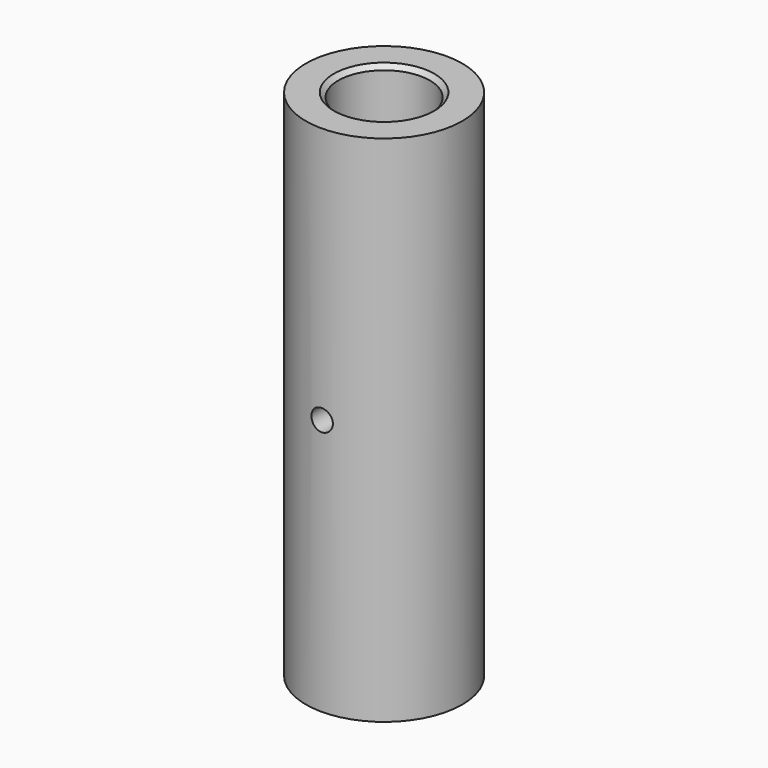
from build123d import *

# Parameters (mm, degrees)
F0_R     = 17.5
F0_R_2   = 10.25
F1_DEPTH = 57.5
F2_R     = 2.4
F3_DEPTH = 25
F4_SIZE  = 1
F5_SIZE  = 1


with BuildPart() as f1:
    # F0 (on Top) → F1 (new body, symmetric)
    with BuildSketch(Plane.XY):
        Circle(F0_R)
        Circle(F0_R_2, mode=Mode.SUBTRACT)
    extrude(amount=F1_DEPTH, both=True)

    # F2 (on Front) → F3 (cut)
    with BuildSketch(Plane.XZ):
        Circle(F2_R)
    extrude(amount=F3_DEPTH, mode=Mode.SUBTRACT)

    # F4
    f4_edges = [f1.edges().sort_by_distance(p)[0] for p in [
        (-10.25, 0, 57.5),
    ]]
    chamfer(f4_edges, length=F4_SIZE)

    # F5
    f5_edges = [f1.edges().sort_by_distance(p)[0] for p in [
        (-10.25, 0, -57.5),
    ]]
    chamfer(f5_edges, length=F5_SIZE)


solid = f1.part
